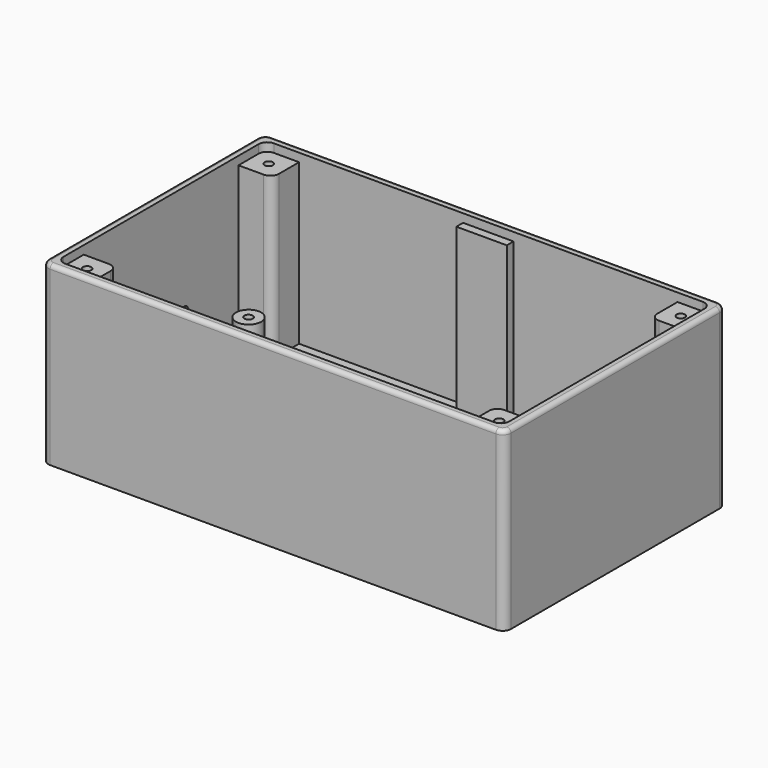
from build123d import *

# Parameters (mm, degrees)
SKETCH008_W     = 110
SKETCH008_H     = 66
PAD006_DEPTH    = 2
SKETCH010_W     = 110
SKETCH010_H     = 66
PAD008_DEPTH    = 40
SKETCH011_W     = 106
SKETCH011_H     = 62
POCKET003_DEPTH = 40
SKETCH012_W     = 8
SKETCH012_H     = 8
PAD009_DEPTH    = 38
FILLET_R        = 2
FILLET001_R     = 2
FILLET002_R     = 2
FILLET003_R     = 2
FILLET004_R     = 2
SKETCH009_R     = 3
PAD010_DEPTH    = 10
SKETCH013_W     = 16
SKETCH013_H     = 10
POCKET004_DEPTH = 2
SKETCH014_R     = 1
POCKET005_DEPTH = 8
FILLET005_R     = 1
FILLET006_R     = 1
FILLET007_R     = 2
SKETCH015_R     = 1
POCKET006_DEPTH = 5
FILLET008_R     = 1
SKETCH016_W     = 12
SKETCH016_H     = 2
PAD011_DEPTH    = 38


with BuildPart() as part:
    # Sketch008 → Pad006 (new body)
    with BuildSketch(Plane.XY):
        with Locations((9, 0)):
            Rectangle(SKETCH008_W, SKETCH008_H)
    extrude(amount=PAD006_DEPTH)

    # Sketch010 (on Face6 of Pad006) → Pad008 (join)
    with BuildSketch(Plane.XY.offset(2)):
        with Locations((9, 0)):
            Rectangle(SKETCH010_W, SKETCH010_H)
    extrude(amount=PAD008_DEPTH)

    # Sketch011 (on Face9 of Pad008) → Pocket003 (cut)
    with BuildSketch(Plane.XY.offset(42)):
        with Locations((9, 0)):
            Rectangle(SKETCH011_W, SKETCH011_H)
    extrude(amount=-POCKET003_DEPTH, mode=Mode.SUBTRACT)

    # Sketch012 (on Face15 of Pocket003) → Pad009 (join)
    with BuildSketch(Plane.XY.offset(2)):
        with Locations((-40, 27)):
            Rectangle(SKETCH012_W, SKETCH012_H)
        with Locations((58, 27)):
            Rectangle(SKETCH012_W, SKETCH012_H)
        with Locations((-40, -27)):
            Rectangle(SKETCH012_W, SKETCH012_H)
        with Locations((58, -27)):
            Rectangle(SKETCH012_W, SKETCH012_H)
    extrude(amount=PAD009_DEPTH)

    # Fillet
    fillet_edges = [part.edges().sort_by_distance(p)[0] for p in [
        (62, -31, 41),
    ]]
    fillet(fillet_edges, radius=FILLET_R)

    # Fillet001
    fillet001_edges = [part.edges().sort_by_distance(p)[0] for p in [
        (-44, 31, 41),
    ]]
    fillet(fillet001_edges, radius=FILLET001_R)

    # Fillet002
    fillet002_edges = [part.edges().sort_by_distance(p)[0] for p in [
        (62, 31, 41),
    ]]
    fillet(fillet002_edges, radius=FILLET002_R)

    # Fillet003
    fillet003_edges = [part.edges().sort_by_distance(p)[0] for p in [
        (-44, -31, 41),
    ]]
    fillet(fillet003_edges, radius=FILLET003_R)

    # Fillet004
    fillet004_edges = [part.edges().sort_by_distance(p)[0] for p in [
        (64, 33, 22),
        (64, -33, 22),
        (-46, -33, 22),
        (-46, 33, 22),
    ]]
    fillet(fillet004_edges, radius=FILLET004_R)

    # Sketch009 → Pad010 (join)
    with BuildSketch(Plane.XY.offset(2)):
        with Locations((-38, 18.5)):
            Circle(SKETCH009_R)
        with Locations((45, 18.5)):
            Circle(SKETCH009_R)
        with Locations((-38, -18.5)):
            Circle(SKETCH009_R)
        with Locations((45, -18.5)):
            Circle(SKETCH009_R)
    extrude(amount=PAD010_DEPTH)

    # Sketch013 (on Face5 of Pad010) → Pocket004 (cut)
    with BuildSketch(Plane(origin=(-46, 0, 0), x_dir=(0, -1, 0), z_dir=(-1, 0, 0))):
        with Locations((0, 12)):
            Rectangle(SKETCH013_W, SKETCH013_H)
    extrude(amount=-POCKET004_DEPTH, mode=Mode.SUBTRACT)

    # Sketch014 (on Face35 of Pocket004) → Pocket005 (cut)
    with BuildSketch(Plane.XY.offset(40)):
        with Locations((-40, 27)):
            Circle(SKETCH014_R)
        with Locations((58, 27)):
            Circle(SKETCH014_R)
        with Locations((-40, -27)):
            Circle(SKETCH014_R)
        with Locations((58, -27)):
            Circle(SKETCH014_R)
    extrude(amount=-POCKET005_DEPTH, mode=Mode.SUBTRACT)

    # Fillet005
    fillet005_edges = [part.edges().sort_by_distance(p)[0] for p in [
        (9, 33, 42),
        (63.414214, 32.414214, 42),
        (64, 0, 42),
        (-45.414214, 32.414214, 42),
        (-46, 0, 42),
        (-45.414214, -32.414214, 42),
        (9, -33, 42),
        (63.414214, -32.414214, 42),
    ]]
    fillet(fillet005_edges, radius=FILLET005_R)

    # Fillet006
    fillet006_edges = [part.edges().sort_by_distance(p)[0] for p in [
        (-45, -8, 17),
        (-45, 8, 7),
        (-45, 8, 17),
        (-45, -8, 7),
    ]]
    fillet(fillet006_edges, radius=FILLET006_R)

    # Fillet007
    fillet007_edges = [part.edges().sort_by_distance(p)[0] for p in [
        (54, 23, 21),
        (54, -23, 21),
        (-36, 23, 21),
        (-36, -23, 21),
    ]]
    fillet(fillet007_edges, radius=FILLET007_R)

    # Sketch015 (on Face55 of Fillet007) → Pocket006 (cut)
    with BuildSketch(Plane.XY.offset(12)):
        with Locations((-38, 18.5)):
            Circle(SKETCH015_R)
        with Locations((45, 18.5)):
            Circle(SKETCH015_R)
        with Locations((-38, -18.5)):
            Circle(SKETCH015_R)
        with Locations((45, -18.5)):
            Circle(SKETCH015_R)
    extrude(amount=-POCKET006_DEPTH, mode=Mode.SUBTRACT)

    # Fillet008
    fillet008_edges = [part.edges().sort_by_distance(p)[0] for p in [
        (-46, 8, 12),
        (-46, 7.707107, 7.292893),
        (-46, 7.707107, 16.707107),
        (-46, 0, 17),
        (-46, -7.707107, 16.707107),
        (-46, -8, 12),
        (-46, -7.707107, 7.292893),
        (-46, 0, 7),
    ]]
    fillet(fillet008_edges, radius=FILLET008_R)

    # Sketch016 (on Face21 of Fillet008) → Pad011 (join)
    with BuildSketch(Plane.XY.offset(2)):
        with Locations((9, 30)):
            Rectangle(SKETCH016_W, SKETCH016_H)
        with Locations((9, -30)):
            Rectangle(SKETCH016_W, SKETCH016_H)
    extrude(amount=PAD011_DEPTH)


solid = part.part
